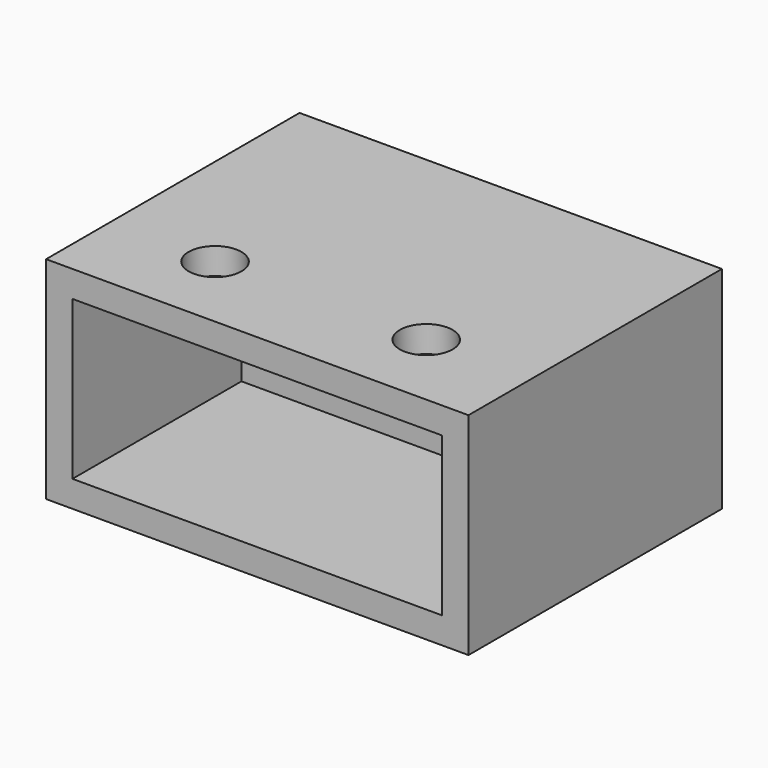
from build123d import *

# Parameters (mm, degrees)
F0_W     = 101.6
F0_H     = 50.8
F0_W_2   = 88.9
F0_H_2   = 38.1
F1_DEPTH = 76.2
F2_W     = 88.9
F2_H     = 38.1
F3_DEPTH = 25.4
F4_R     = 6.35
F5_DEPTH = 25.4


with BuildPart() as f1:
    # F0 (on Front) → F1 (new body)
    with BuildSketch(Plane.XZ):
        with Locations((50.8, 25.4)):
            Rectangle(F0_W, F0_H)
        with Locations((50.8, 25.4)):
            Rectangle(F0_W_2, F0_H_2, mode=Mode.SUBTRACT)
    extrude(amount=F1_DEPTH)

    # F2 (on Front) → F3 (join)
    with BuildSketch(Plane.XZ):
        with Locations((50.8, 25.4)):
            Rectangle(F2_W, F2_H)
    extrude(amount=F3_DEPTH)

    # F4 (on face) → F5 (cut)
    with BuildSketch(Plane.XY.offset(50.8)):
        with Locations((25.4, -57.15)):
            Circle(F4_R)
        with Locations((76.2, -57.15)):
            Circle(F4_R)
    extrude(amount=-F5_DEPTH, mode=Mode.SUBTRACT)


solid = f1.part
